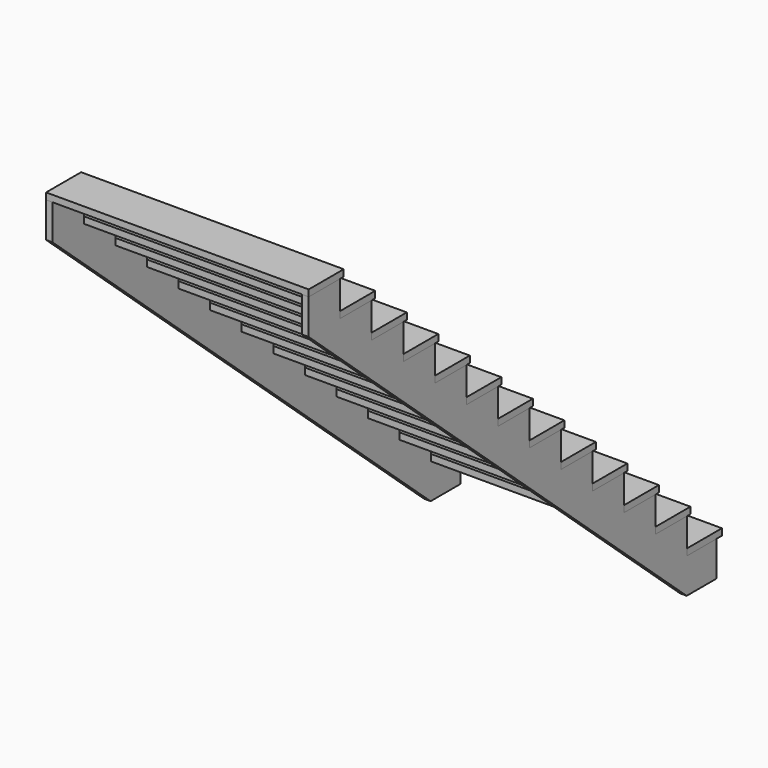
from build123d import *

# Parameters (mm, degrees)
F0_W     = 254
F0_H     = 38.1
F1_DEPTH = 1524
F3_DEPTH = 38.1


with BuildPart() as f1:
    # F0 (on Right) → F1 (new body)
    with BuildSketch(Plane.YZ):
        with Locations((-127, 19.05)):
            Rectangle(F0_W, F0_H)
        with Locations((-355.6, 222.25)):
            Rectangle(F0_W, F0_H)
        with Locations((-584.2, 425.45)):
            Rectangle(F0_W, F0_H)
        with Locations((-812.8, 628.65)):
            Rectangle(F0_W, F0_H)
        with Locations((-1041.4, 831.85)):
            Rectangle(F0_W, F0_H)
        with Locations((-1270, 1035.05)):
            Rectangle(F0_W, F0_H)
        with Locations((-1498.6, 1238.25)):
            Rectangle(F0_W, F0_H)
        with Locations((-1727.2, 1441.45)):
            Rectangle(F0_W, F0_H)
        with Locations((-1955.8, 1644.65)):
            Rectangle(F0_W, F0_H)
        with Locations((-2184.4, 1847.85)):
            Rectangle(F0_W, F0_H)
        with Locations((-2413, 2051.05)):
            Rectangle(F0_W, F0_H)
        with Locations((-2641.6, 2254.25)):
            Rectangle(F0_W, F0_H)
        with Locations((-2870.2, 2457.45)):
            Rectangle(F0_W, F0_H)
    extrude(amount=F1_DEPTH)


with BuildPart() as f3:
    # F2 (on Right) → F3 (new body)
    with BuildSketch(Plane.YZ):
        Polygon((-37.514631, 0), (-254, 0), (-254, 203.2), (-482.6, 203.2), (-482.6, 406.4), (-711.2, 406.4), (-711.2, 609.6), (-939.8, 609.6), (-939.8, 812.8), (-1168.4, 812.8), (-1168.4, 1016), (-1397, 1016), (-1397, 1219.2), (-1625.6, 1219.2), (-1625.6, 1422.4), (-1854.2, 1422.4), (-1854.2, 1625.6), (-2082.8, 1625.6), (-2082.8, 1828.8), (-2311.4, 1828.8), (-2311.4, 2032), (-2540, 2032), (-2540, 2235.2), (-2768.6, 2235.2), (-2768.6, 2438.4), (-2997.2, 2438.4), (-2997.2, 2233.79133), (-255.584753, -203.2), (-37.514631, -203.2), align=None)
    extrude(amount=F3_DEPTH)


with BuildPart() as f4_1:
    # F4: copy of F3
    add(f3.part.moved(Location((1485.9, 0, 0))))


solid = Compound([f1.part, f3.part, f4_1.part])
